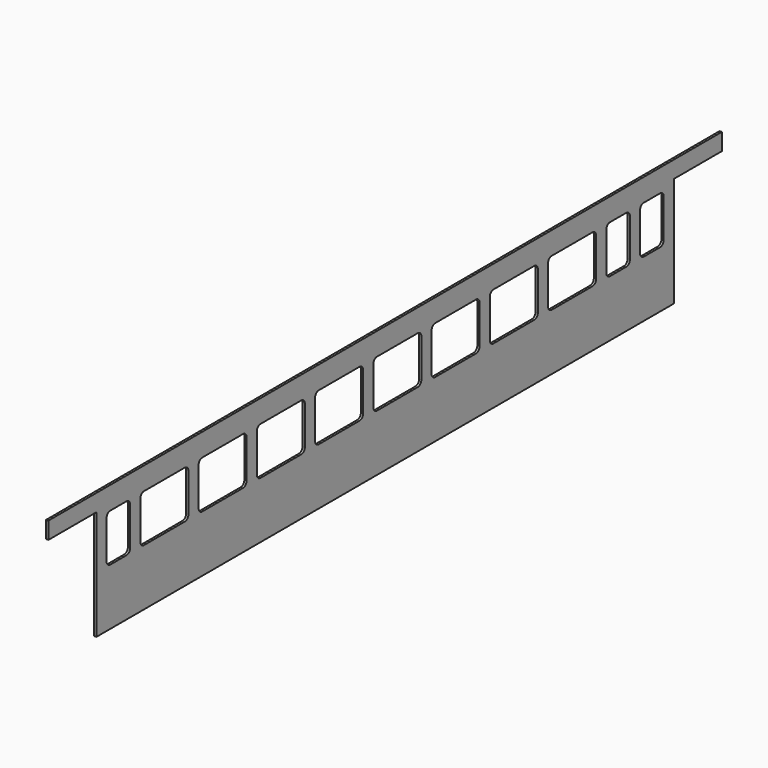
from build123d import *

# Parameters (mm, degrees)
F1_DEPTH = 1


with BuildPart() as f1:
    # F0 (on Right) → F1 (new body)
    with BuildSketch(Plane.YZ):
        Polygon((289.166, 39.710689), (-29.834, 39.710689), (-56.334, 39.710689), (-56.334, 32.210689), (-29.834, 32.210689), (-29.834, -16.289311), (289.166, -16.289311), (289.166, 32.210689), (315.666, 32.210689), (315.666, 39.710689), align=None)
        with BuildLine():
            ThreePointArc((-24.167, 27.710689), (-23.581214, 29.124903), (-22.167, 29.710689))
            Line((-22.167, 29.710689), (-13.167, 29.710689))
            ThreePointArc((-13.167, 29.710689), (-11.752786, 29.124903), (-11.167, 27.710689))
            Line((-11.167, 27.710689), (-11.167, 10.710689))
            ThreePointArc((-11.167, 10.710689), (-11.752786, 9.296475), (-13.167, 8.710689))
            Line((-13.167, 8.710689), (-22.167, 8.710689))
            ThreePointArc((-22.167, 8.710689), (-23.581214, 9.296475), (-24.167, 10.710689))
            Line((-24.167, 10.710689), (-24.167, 27.710689))
        make_face(mode=Mode.SUBTRACT)
        with BuildLine():
            ThreePointArc((-5.5, 27.710689), (-4.914214, 29.124903), (-3.5, 29.710689))
            Line((-3.5, 29.710689), (19, 29.710689))
            ThreePointArc((19, 29.710689), (20.414214, 29.124903), (21, 27.710689))
            Line((21, 27.710689), (21, 10.710689))
            ThreePointArc((21, 10.710689), (20.414214, 9.296475), (19, 8.710689))
            Line((19, 8.710689), (-3.5, 8.710689))
            ThreePointArc((-3.5, 8.710689), (-4.914214, 9.296475), (-5.5, 10.710689))
            Line((-5.5, 10.710689), (-5.5, 27.710689))
        make_face(mode=Mode.SUBTRACT)
        with BuildLine():
            ThreePointArc((26.663, 27.710689), (27.248786, 29.124903), (28.663, 29.710689))
            Line((28.663, 29.710689), (51.163, 29.710689))
            ThreePointArc((51.163, 29.710689), (52.577214, 29.124903), (53.163, 27.710689))
            Line((53.163, 27.710689), (53.163, 10.710689))
            ThreePointArc((53.163, 10.710689), (52.577214, 9.296475), (51.163, 8.710689))
            Line((51.163, 8.710689), (28.663, 8.710689))
            ThreePointArc((28.663, 8.710689), (27.248786, 9.296475), (26.663, 10.710689))
            Line((26.663, 10.710689), (26.663, 27.710689))
        make_face(mode=Mode.SUBTRACT)
        with BuildLine():
            ThreePointArc((58.83, 27.710689), (59.415786, 29.124903), (60.83, 29.710689))
            Line((60.83, 29.710689), (83.33, 29.710689))
            ThreePointArc((83.33, 29.710689), (84.744214, 29.124903), (85.33, 27.710689))
            Line((85.33, 27.710689), (85.33, 10.710689))
            ThreePointArc((85.33, 10.710689), (84.744214, 9.296475), (83.33, 8.710689))
            Line((83.33, 8.710689), (60.83, 8.710689))
            ThreePointArc((60.83, 8.710689), (59.415786, 9.296475), (58.83, 10.710689))
            Line((58.83, 10.710689), (58.83, 27.710689))
        make_face(mode=Mode.SUBTRACT)
        with BuildLine():
            ThreePointArc((90.997, 27.710689), (91.582786, 29.124903), (92.997, 29.710689))
            Line((92.997, 29.710689), (115.497, 29.710689))
            ThreePointArc((115.497, 29.710689), (116.911214, 29.124903), (117.497, 27.710689))
            Line((117.497, 27.710689), (117.497, 10.710689))
            ThreePointArc((117.497, 10.710689), (116.911214, 9.296475), (115.497, 8.710689))
            Line((115.497, 8.710689), (92.997, 8.710689))
            ThreePointArc((92.997, 8.710689), (91.582786, 9.296475), (90.997, 10.710689))
            Line((90.997, 10.710689), (90.997, 27.710689))
        make_face(mode=Mode.SUBTRACT)
        with BuildLine():
            ThreePointArc((123.164, 27.710689), (123.749786, 29.124903), (125.164, 29.710689))
            Line((125.164, 29.710689), (147.664, 29.710689))
            ThreePointArc((147.664, 29.710689), (149.078214, 29.124903), (149.664, 27.710689))
            Line((149.664, 27.710689), (149.664, 10.710689))
            ThreePointArc((149.664, 10.710689), (149.078214, 9.296475), (147.664, 8.710689))
            Line((147.664, 8.710689), (125.164, 8.710689))
            ThreePointArc((125.164, 8.710689), (123.749786, 9.296475), (123.164, 10.710689))
            Line((123.164, 10.710689), (123.164, 27.710689))
        make_face(mode=Mode.SUBTRACT)
        with BuildLine():
            ThreePointArc((155.331, 27.710689), (155.916786, 29.124903), (157.331, 29.710689))
            Line((157.331, 29.710689), (179.831, 29.710689))
            ThreePointArc((179.831, 29.710689), (181.245214, 29.124903), (181.831, 27.710689))
            Line((181.831, 27.710689), (181.831, 10.710689))
            ThreePointArc((181.831, 10.710689), (181.245214, 9.296475), (179.831, 8.710689))
            Line((179.831, 8.710689), (157.331, 8.710689))
            ThreePointArc((157.331, 8.710689), (155.916786, 9.296475), (155.331, 10.710689))
            Line((155.331, 10.710689), (155.331, 27.710689))
        make_face(mode=Mode.SUBTRACT)
        with BuildLine():
            ThreePointArc((187.498, 27.710689), (188.083786, 29.124903), (189.498, 29.710689))
            Line((189.498, 29.710689), (211.998, 29.710689))
            ThreePointArc((211.998, 29.710689), (213.412214, 29.124903), (213.998, 27.710689))
            Line((213.998, 27.710689), (213.998, 10.710689))
            ThreePointArc((213.998, 10.710689), (213.412214, 9.296475), (211.998, 8.710689))
            Line((211.998, 8.710689), (189.498, 8.710689))
            ThreePointArc((189.498, 8.710689), (188.083786, 9.296475), (187.498, 10.710689))
            Line((187.498, 10.710689), (187.498, 27.710689))
        make_face(mode=Mode.SUBTRACT)
        with BuildLine():
            ThreePointArc((219.665, 27.710689), (220.250786, 29.124903), (221.665, 29.710689))
            Line((221.665, 29.710689), (244.165, 29.710689))
            ThreePointArc((244.165, 29.710689), (245.579214, 29.124903), (246.165, 27.710689))
            Line((246.165, 27.710689), (246.165, 10.710689))
            ThreePointArc((246.165, 10.710689), (245.579214, 9.296475), (244.165, 8.710689))
            Line((244.165, 8.710689), (221.665, 8.710689))
            ThreePointArc((221.665, 8.710689), (220.250786, 9.296475), (219.665, 10.710689))
            Line((219.665, 10.710689), (219.665, 27.710689))
        make_face(mode=Mode.SUBTRACT)
        with BuildLine():
            ThreePointArc((251.832, 27.710689), (252.417786, 29.124903), (253.832, 29.710689))
            Line((253.832, 29.710689), (262.832, 29.710689))
            ThreePointArc((262.832, 29.710689), (264.246214, 29.124903), (264.832, 27.710689))
            Line((264.832, 27.710689), (264.832, 10.710689))
            ThreePointArc((264.832, 10.710689), (264.246214, 9.296475), (262.832, 8.710689))
            Line((262.832, 8.710689), (253.832, 8.710689))
            ThreePointArc((253.832, 8.710689), (252.417786, 9.296475), (251.832, 10.710689))
            Line((251.832, 10.710689), (251.832, 27.710689))
        make_face(mode=Mode.SUBTRACT)
        with BuildLine():
            ThreePointArc((270.499, 27.710689), (271.084786, 29.124903), (272.499, 29.710689))
            Line((272.499, 29.710689), (281.499, 29.710689))
            ThreePointArc((281.499, 29.710689), (282.913214, 29.124903), (283.499, 27.710689))
            Line((283.499, 27.710689), (283.499, 10.710689))
            ThreePointArc((283.499, 10.710689), (282.913214, 9.296475), (281.499, 8.710689))
            Line((281.499, 8.710689), (272.499, 8.710689))
            ThreePointArc((272.499, 8.710689), (271.084786, 9.296475), (270.499, 10.710689))
            Line((270.499, 10.710689), (270.499, 27.710689))
        make_face(mode=Mode.SUBTRACT)
    extrude(amount=F1_DEPTH)


solid = f1.part
